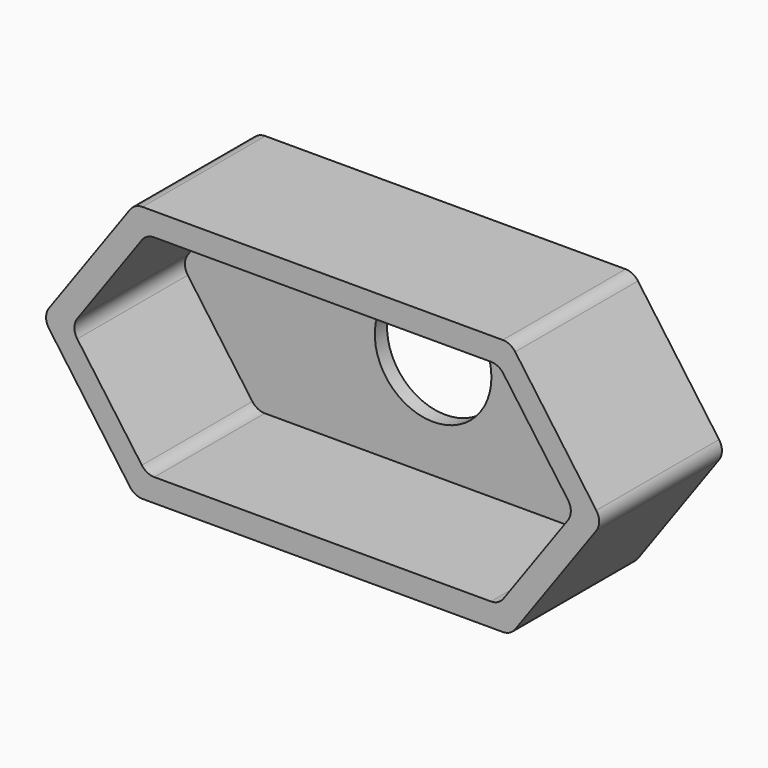
from build123d import *

# Parameters (mm, degrees)
F0_R     = 3.8
F1_DEPTH = 1
F2_DEPTH = 10


with BuildPart() as f1:
    # F0 (on Front) → F1 (new body)
    with BuildSketch(Plane.XZ):
        with BuildLine():
            Line((-11.778597, 6.457385), (-15.987552, 0.582385))
            ThreePointArc((-15.987552, 0.582385), (-16.17464, 0), (-15.987552, -0.582385))
            Line((-15.987552, -0.582385), (-11.778597, -6.457385))
            ThreePointArc((-11.778597, -6.457385), (-11.422639, -6.76449), (-10.965684, -6.875))
            Line((-10.965684, -6.875), (10.965684, -6.875))
            ThreePointArc((10.965684, -6.875), (11.422639, -6.76449), (11.778597, -6.457385))
            Line((11.778597, -6.457385), (15.987552, -0.582385))
            ThreePointArc((15.987552, -0.582385), (16.17464, 0), (15.987552, 0.582385))
            Line((15.987552, 0.582385), (11.778597, 6.457385))
            ThreePointArc((11.778597, 6.457385), (11.422639, 6.76449), (10.965684, 6.875))
            Line((10.965684, 6.875), (-10.965684, 6.875))
            ThreePointArc((-10.965684, 6.875), (-11.422639, 6.76449), (-11.778597, 6.457385))
        make_face()
        Circle(F0_R, mode=Mode.SUBTRACT)
    extrude(amount=F1_DEPTH)

    # F0 (on Front) → F2 (join)
    with BuildSketch(Plane.XZ):
        with BuildLine():
            Line((11.736274, 8.375), (-11.736274, 8.375))
            ThreePointArc((-11.736274, 8.375), (-12.193228, 8.26449), (-12.549187, 7.957385))
            Line((-12.549187, 7.957385), (-17.832769, 0.582385))
            ThreePointArc((-17.832769, 0.582385), (-18.019856, 0), (-17.832769, -0.582385))
            Line((-17.832769, -0.582385), (-12.549187, -7.957385))
            ThreePointArc((-12.549187, -7.957385), (-12.193228, -8.26449), (-11.736274, -8.375))
            Line((-11.736274, -8.375), (11.736274, -8.375))
            ThreePointArc((11.736274, -8.375), (12.193228, -8.26449), (12.549187, -7.957385))
            Line((12.549187, -7.957385), (17.832769, -0.582385))
            ThreePointArc((17.832769, -0.582385), (18.019856, 0), (17.832769, 0.582385))
            Line((17.832769, 0.582385), (12.549187, 7.957385))
            ThreePointArc((12.549187, 7.957385), (12.193228, 8.26449), (11.736274, 8.375))
        make_face()
        with BuildLine():
            ThreePointArc((-15.987552, -0.582385), (-16.17464, 0), (-15.987552, 0.582385))
            Line((-15.987552, 0.582385), (-11.778597, 6.457385))
            ThreePointArc((-11.778597, 6.457385), (-11.422639, 6.76449), (-10.965684, 6.875))
            Line((-10.965684, 6.875), (10.965684, 6.875))
            ThreePointArc((10.965684, 6.875), (11.422639, 6.76449), (11.778597, 6.457385))
            Line((11.778597, 6.457385), (15.987552, 0.582385))
            ThreePointArc((15.987552, 0.582385), (16.17464, 0), (15.987552, -0.582385))
            Line((15.987552, -0.582385), (11.778597, -6.457385))
            ThreePointArc((11.778597, -6.457385), (11.422639, -6.76449), (10.965684, -6.875))
            Line((10.965684, -6.875), (-10.965684, -6.875))
            ThreePointArc((-10.965684, -6.875), (-11.422639, -6.76449), (-11.778597, -6.457385))
            Line((-11.778597, -6.457385), (-15.987552, -0.582385))
        make_face(mode=Mode.SUBTRACT)
    extrude(amount=F2_DEPTH)


solid = f1.part
